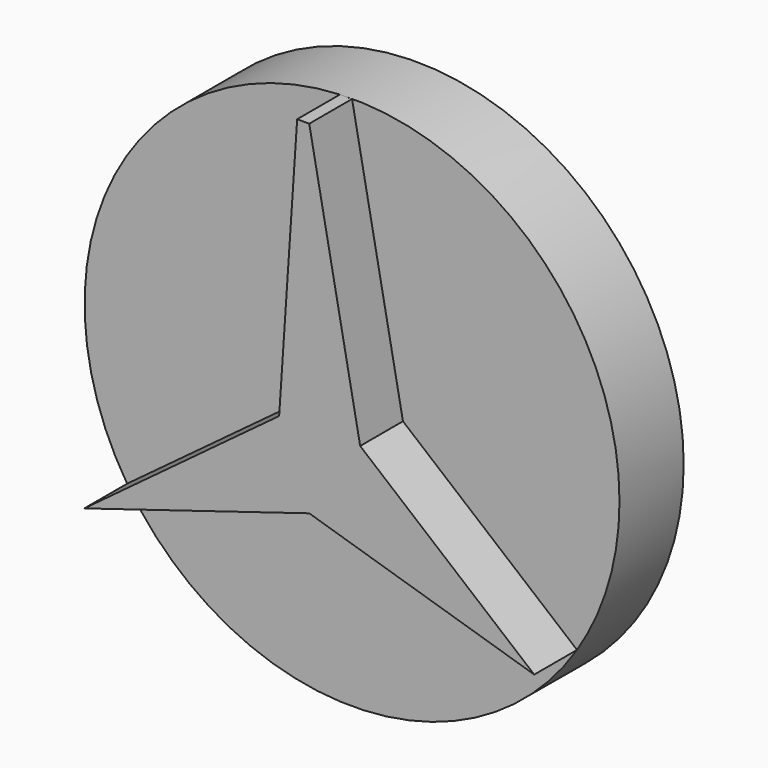
from build123d import *

# Parameters (mm, degrees)
F1_DEPTH = 12.7
F2_R     = 25.4
F3_DEPTH = 7.62


with BuildPart() as f1:
    # F0 (on Front) → F1 (new body)
    with BuildSketch(Plane.XZ):
        Polygon((0, 25.373987), (-1.149251, 25.373987), (-2.861024, 0), (-21.364293, -13.737794), (0, -7.201886), (21.364293, -13.737794), (4.834144, 0), align=None)
    extrude(amount=F1_DEPTH)

    # F2 (on Front) → F3 (join)
    with BuildSketch(Plane.XZ):
        Circle(F2_R)
    extrude(amount=F3_DEPTH)


solid = f1.part
